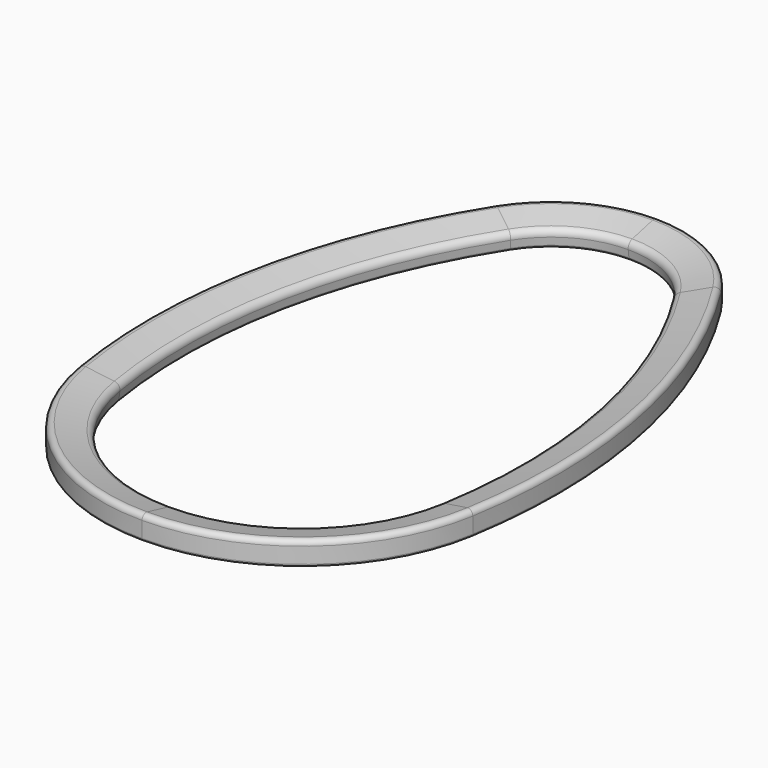
from build123d import *


with BuildPart() as part:
    # AdditivePipe: sweep along a path in Sketch001
    with BuildLine(Plane.XY) as additivepipe_path:
        ThreePointArc((0, 198.761814), (44.755859, 187.259569), (78.420015, 155.603397))
        ThreePointArc((78.420015, 155.603397), (139.914866, 2.671428), (142.851191, -162.135071))
        ThreePointArc((142.851191, -162.135071), (93.637273, -248.886362), (0, -283.235413))
    # Sketch → AdditivePipe (sweep)
    with BuildSketch(Plane.YZ):
        with BuildLine():
            Line((184.49577, -6.886511), (208.77577, -6.886511))
            ThreePointArc((208.77577, -6.886511), (210.189983, -6.300724), (210.77577, -4.886511))
            Line((210.77577, -4.886511), (210.77577, 7.563489))
            ThreePointArc((210.77577, 7.563489), (209.248492, 10.707634), (205.832946, 11.450787))
            Line((205.832946, 11.450787), (185.77449, 6.585816))
            ThreePointArc((185.77449, 6.585816), (182.668433, 4.45086), (181.772069, 0.789963))
            Line((181.772069, 0.789963), (182.511156, -5.134111))
            ThreePointArc((182.511156, -5.134111), (183.171987, -6.38571), (184.49577, -6.886511))
        make_face()
    additivepipe = sweep(path=additivepipe_path.line)

    # Mirrored: AdditivePipe across YZ
    add(additivepipe.mirror(Plane.YZ))


solid = part.part
